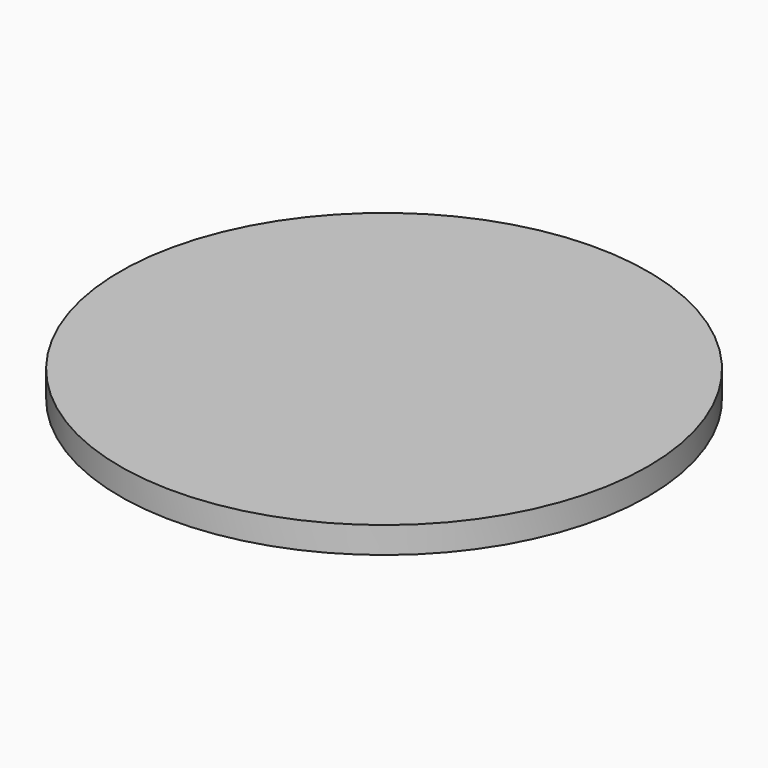
from build123d import *

# Parameters (mm, degrees)
F0_R     = 20
F0_W     = 20
F0_H     = 25
F1_DEPTH = 2
F2_W     = 20
F2_H     = 25
F3_DEPTH = 1


with BuildPart() as f1:
    # F0 (on Top) → F1 (new body)
    with BuildSketch(Plane.XY):
        Circle(F0_R)
        Rectangle(F0_W, F0_H, mode=Mode.SUBTRACT)
        Rectangle(F0_W, F0_H)
    extrude(amount=F1_DEPTH)

    # F2 (on Top) → F3 (join)
    with BuildSketch(Plane.XY):
        with Locations((0, 0.787985)):
            Rectangle(F2_W, F2_H)
    extrude(amount=-F3_DEPTH)


solid = f1.part
